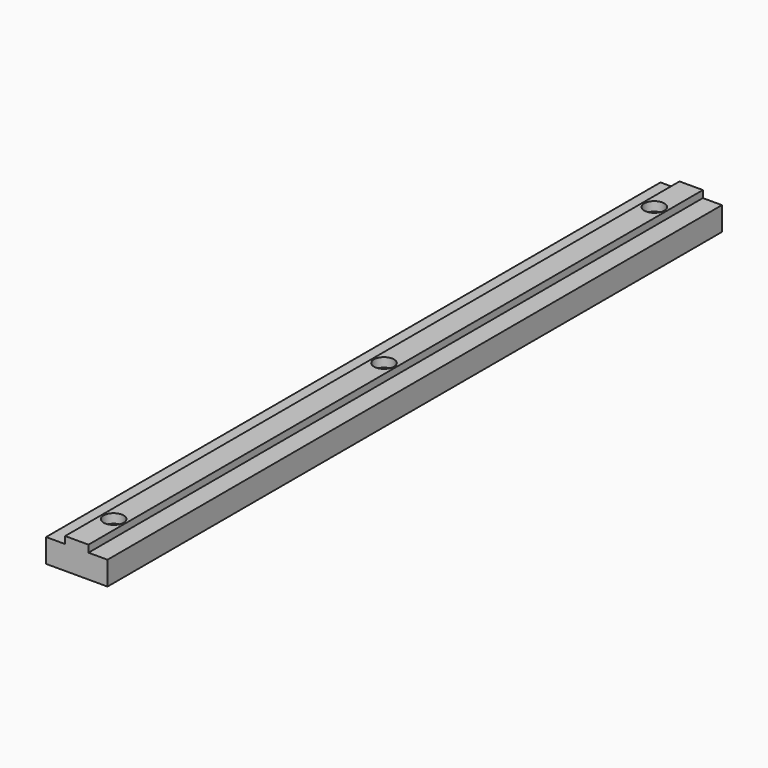
from build123d import *

# Parameters (mm, degrees)
F1_DEPTH       = 250
F3_D           = 3.3
F3_CBORE_D     = 6.5
F3_CBORE_DEPTH = 3


with BuildPart() as f1:
    # F0 (on Front) → F1 (new body)
    with BuildSketch(Plane.XZ):
        Polygon((-10, 7.7), (-10, 0), (10, 0), (10, 7.7), (3.8, 7.7), (3.8, 10), (-3.8, 10), (-3.8, 7.7), align=None)
    extrude(amount=-F1_DEPTH)

    # F3 (through all)
    with Locations(Plane.XY.offset(10)):
        with Locations((0, 15), (0, 125), (0, 235)):
            CounterBoreHole(F3_D / 2, F3_CBORE_D / 2, F3_CBORE_DEPTH)


solid = f1.part
